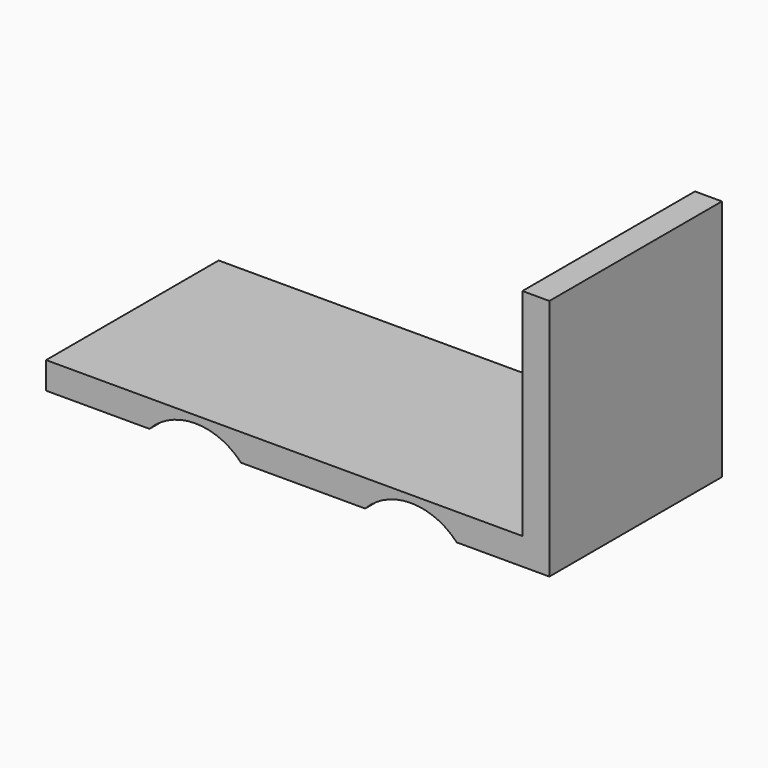
from build123d import *

# Parameters (mm, degrees)
F0_W     = 19.05
F0_H     = 152.4
F1_DEPTH = 76.2
F3_DEPTH = 25.4
F5_DEPTH = 25.4


with BuildPart() as f1:
    # F0 (on Front) → F1 (new body, symmetric)
    with BuildSketch(Plane.XZ):
        Polygon((-177.8, -9.525), (177.8, -9.525), (177.8, 9.525), (158.75, 9.525), (-177.8, 9.525), align=None)
        with Locations((168.275, 85.725)):
            Rectangle(F0_W, F0_H)
    extrude(amount=F1_DEPTH, both=True)

    # F2 (on face) → F3 (cut)
    with BuildSketch(Plane.XZ.offset(76.2)):
        with BuildLine():
            ThreePointArc((-40.0361424247, -9.525), (-72.39, 4.445), (-104.7438575753, -9.525))
            Line((-104.7438575753, -9.525), (-72.39, -9.525))
            Line((-72.39, -9.525), (-40.0361424247, -9.525))
        make_face()
        with BuildLine():
            ThreePointArc((112.3638575753, -9.525), (80.01, 4.445), (47.6561424247, -9.525))
            Line((47.6561424247, -9.525), (80.01, -9.525))
            Line((80.01, -9.525), (112.3638575753, -9.525))
        make_face()
    extrude(amount=-F3_DEPTH, mode=Mode.SUBTRACT)

    # F4 (on face) → F5 (cut)
    with BuildSketch(Plane(origin=(0, 76.2, 0), x_dir=(-1, 0, 0), z_dir=(0, 1, 0))):
        with BuildLine():
            ThreePointArc((-48.4944535083, -9.525), (-80.0064127753, 3.5753760285), (-111.5183720423, -9.525))
            Line((-111.5183720423, -9.525), (-48.4944535083, -9.525))
        make_face()
        with BuildLine():
            ThreePointArc((103.9055464917, -9.525), (72.3935872247, 3.5753760285), (40.8816279577, -9.525))
            Line((40.8816279577, -9.525), (103.9055464917, -9.525))
        make_face()
    extrude(amount=-F5_DEPTH, mode=Mode.SUBTRACT)


solid = f1.part
